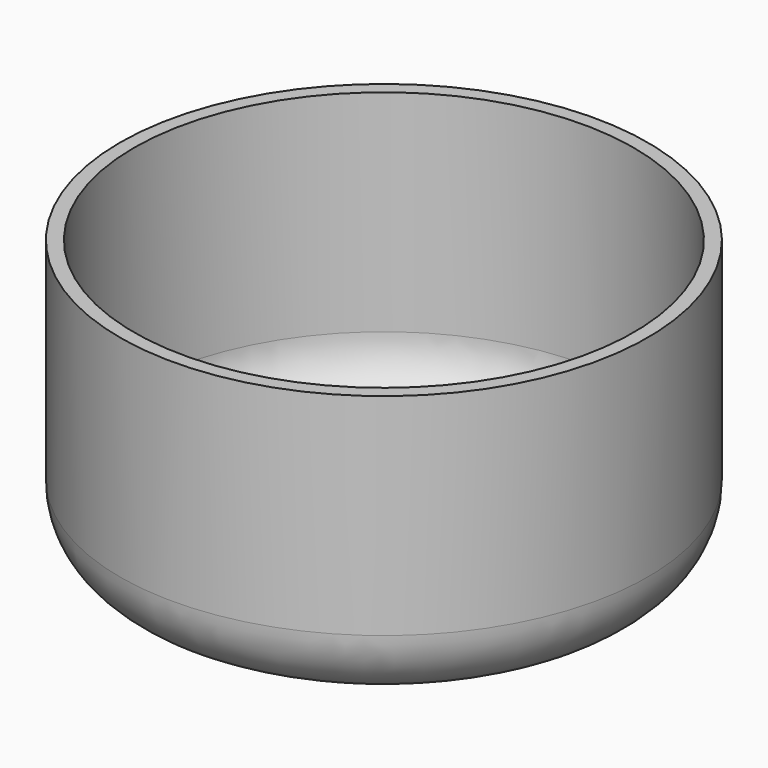
from build123d import *

# Parameters (mm, degrees)
F2_T = -2.54


with BuildPart() as f1:
    # F0 (on Front) → F1 (revolve)
    with BuildSketch(Plane.XZ):
        with BuildLine():
            Line((0, 28.057385), (-47.71965, 28.057385))
            Line((-47.71965, 28.057385), (-47.71965, -10.055207))
            ThreePointArc((-47.71965, -10.055207), (-43.999906, -19.035464), (-35.01965, -22.755207))
            Line((-35.01965, -22.755207), (0, -22.755207))
            Line((0, -22.755207), (0, 28.057385))
        make_face()
    revolve(axis=Axis((0, 0, 2.651089), (0, 0, -1)))

    # F2
    f2_openings = [f1.faces().sort_by_distance(p)[0] for p in [
        (0, 0, 28.057385),
    ]]
    offset(amount=F2_T, openings=f2_openings)


solid = f1.part
